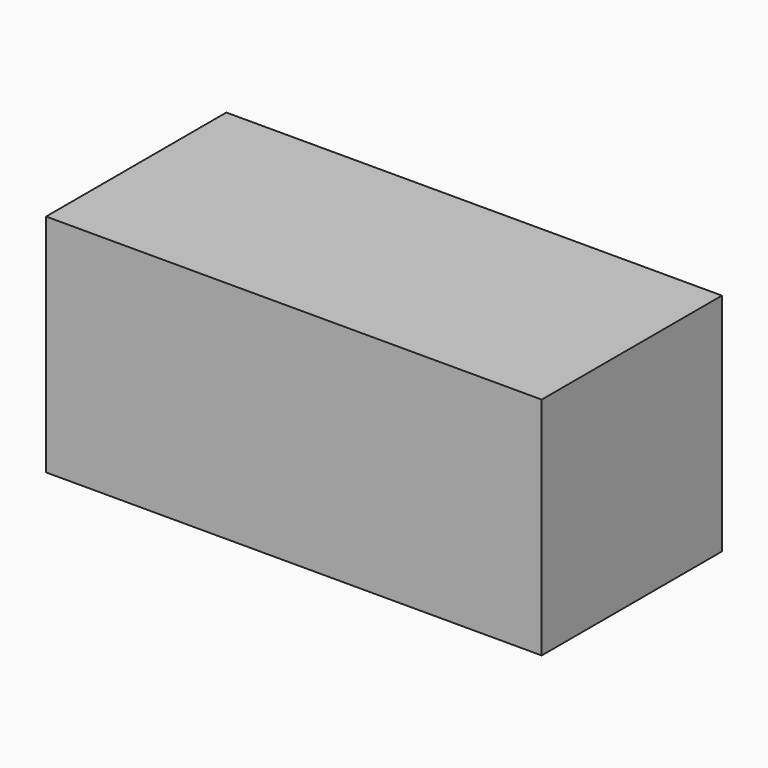
from build123d import *

# Parameters (mm, degrees)
SKETCH_W      = 110
SKETCH_H      = 50
EXTRUDE_DEPTH = 50


with BuildPart() as part:
    # Sketch → Extrude (new body)
    with BuildSketch(Plane.XY):
        Rectangle(SKETCH_W, SKETCH_H)
    extrude(amount=EXTRUDE_DEPTH)


solid = part.part
